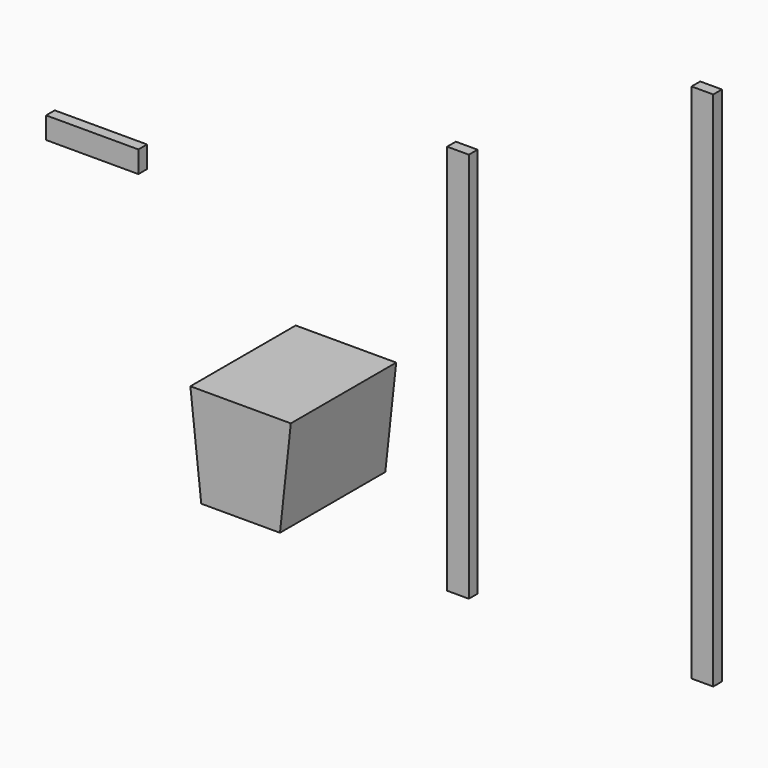
from build123d import *

# Parameters (mm, degrees)
F0_W     = 101.6
F0_H     = 1828.8
F1_DEPTH = 50.8
F0_H_2   = 2438.4
F2_DEPTH = 50.8
F3_DEPTH = 615.95
F0_W_2   = 431.8
F0_H_3   = 101.6
F4_DEPTH = 50.8


with BuildPart() as f1:
    # F0 (on Front) → F1 (new body)
    with BuildSketch(Plane.XZ):
        with Locations((-712.252872, 73.5089)):
            Rectangle(F0_W, F0_H)
    extrude(amount=F1_DEPTH)


with BuildPart() as f2:
    # F0 (on Front) → F2 (new body)
    with BuildSketch(Plane.XZ):
        with Locations((430.945997, 388.469025)):
            Rectangle(F0_W, F0_H_2)
    extrude(amount=F2_DEPTH)


with BuildPart() as f3:
    # F0 (on Front) → F3 (new body)
    with BuildSketch(Plane.XZ):
        Polygon((-1042.055543, -12.618615), (-1511.955543, -12.618615), (-1461.155543, -479.764599), (-1092.855543, -479.764599), align=None)
    extrude(amount=F3_DEPTH)


with BuildPart() as f4:
    # F0 (on Front) → F4 (new body)
    with BuildSketch(Plane.XZ):
        with Locations((-2423.169557, 455.936019)):
            Rectangle(F0_W_2, F0_H_3)
    extrude(amount=F4_DEPTH)


solid = Compound([f1.part, f2.part, f3.part, f4.part])
